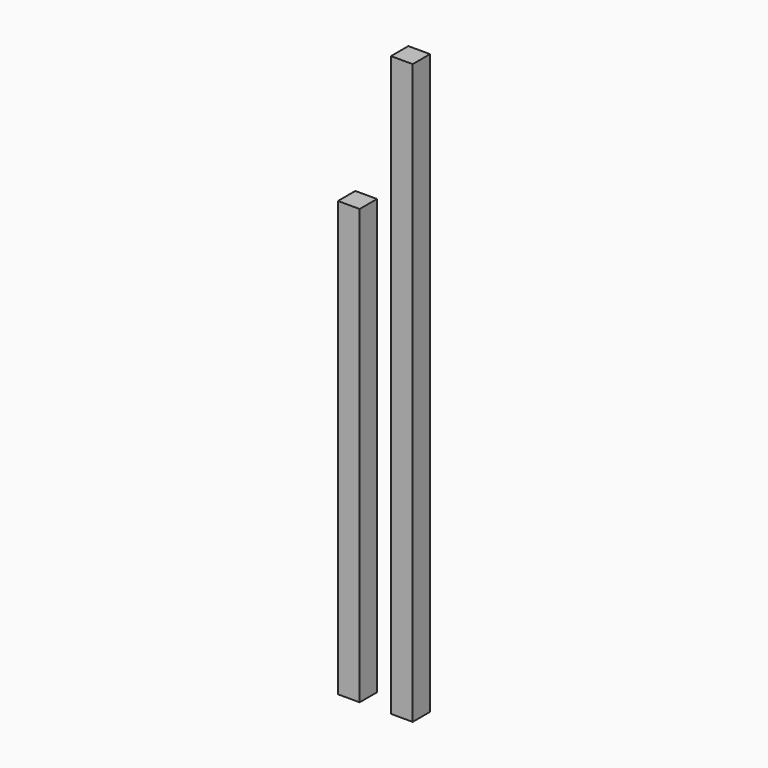
from build123d import *

# Parameters (mm, degrees)
F0_W     = 15
F0_H     = 15
F1_DEPTH = 400
F4_W     = 15
F4_H     = 15
F5_DEPTH = 300


with BuildPart() as f1:
    # F0 (on Top) → F1 (new body)
    with BuildSketch(Plane.XY):
        Rectangle(F0_W, F0_H)
    extrude(amount=F1_DEPTH)


with BuildPart() as f2_1:
    # F2: copy of F1
    add(f1.part.moved(Location((-45.974, 0, 0))))


with BuildPart() as f5:
    # F4 (on Top) → F5 (new body)
    with BuildSketch(Plane.XY):
        with Locations((-36.62103, 0)):
            Rectangle(F4_W, F4_H)
    extrude(amount=F5_DEPTH)


solid = Compound([f1.part, f5.part])
